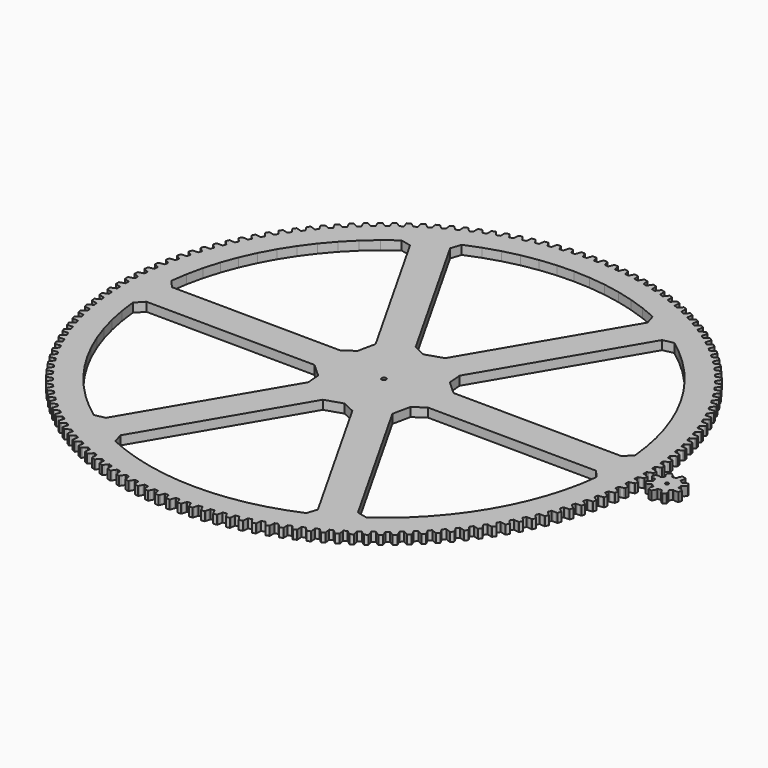
from build123d import *

# Parameters (mm, degrees)
F1_DEPTH = 4


with BuildPart() as f1:
    # F0 (on Top) → F1 (new body)
    with BuildSketch(Plane.XY):
        Polygon((108.348345, 0.457695), (107.747615, 0.658265), (107.726525, 2.302995), (108.321915, 2.518895), (109.510805, 2.983445), (110.104215, 3.231435), (110.049155, 4.841015), (109.440185, 5.047865), (108.222325, 5.430085), (107.613575, 5.604795), (107.522225, 7.247135), (108.107845, 7.488275), (109.275805, 8.003205), (109.858075, 8.276315), (109.734285, 9.882075), (109.117035, 10.062715), (107.883955, 10.392555), (107.268305, 10.541095), (107.106855, 12.178025), (107.681635, 12.443965), (108.826525, 13.008335), (109.396595, 13.306075), (109.204305, 14.905085), (108.579895, 15.059185), (107.333855, 15.336025), (106.712405, 15.458125), (106.481165, 17.086655), (107.044055, 17.376925), (108.163785, 17.989685), (108.720615, 18.311525), (108.460175, 19.900845), (107.829755, 20.028135), (106.573015, 20.251475), (105.946925, 20.346905), (105.646305, 21.964075), (106.196275, 22.278125), (107.288795, 22.938185), (107.831365, 23.283515), (107.503255, 24.860255), (106.867965, 24.960485), (105.602835, 25.129925), (104.973235, 25.198515), (104.603795, 26.801365), (105.139845, 27.138635), (106.203165, 27.844765), (106.730475, 28.212965), (106.335295, 29.774255), (105.696305, 29.847245), (104.425095, 29.962465), (103.793135, 30.004095), (103.355535, 31.589695), (103.876695, 31.949555), (104.908865, 32.700475), (105.419965, 33.090875), (104.958425, 34.633845), (104.316905, 34.679465), (103.041925, 34.740275), (102.408775, 34.754855), (101.903825, 36.320305), (102.409115, 36.702105), (103.408265, 37.496455), (103.902215, 37.908325), (103.375165, 39.430175), (102.732285, 39.448335), (101.455875, 39.454605), (100.822665, 39.442125), (100.251295, 40.984565), (100.739815, 41.387615), (101.704105, 42.223925), (102.180005, 42.656525), (101.588415, 44.154465), (100.945335, 44.145145), (99.669825, 44.096865), (99.037735, 44.057335), (98.400965, 45.573955), (98.871825, 45.997515), (99.799495, 46.874255), (100.256475, 47.326805), (99.601415, 48.798095), (98.959325, 48.761305), (97.687045, 48.658565), (97.057215, 48.592065), (96.356225, 50.080095), (96.808555, 50.523375), (97.697915, 51.438965), (98.135145, 51.910625), (97.417815, 53.352585), (96.777885, 53.288385), (95.511155, 53.131375), (94.884745, 53.038025), (94.120815, 54.494745), (94.553785, 54.956945), (95.403215, 55.909705), (95.819885, 56.399615), (95.041595, 57.809605), (94.404995, 57.718125), (93.146125, 57.507135), (92.524285, 57.387095), (91.698805, 58.809835), (92.111625, 59.290125), (92.919565, 60.278305), (93.314925, 60.785575), (92.477105, 62.161015), (91.844995, 62.042415), (90.596285, 61.777825), (89.980135, 61.631335), (89.094625, 63.017505), (89.486545, 63.514995), (90.251525, 64.536785), (90.624845, 65.060485), (89.729015, 66.398875), (89.102545, 66.253375), (87.866295, 65.935675), (87.256965, 65.762985), (86.313025, 67.110045), (86.683335, 67.623825), (87.403955, 68.677385), (87.754555, 69.216555), (86.802355, 70.515435), (86.182675, 70.343305), (84.961125, 69.973065), (84.359735, 69.774495), (83.359095, 71.079995), (83.707115, 71.609135), (84.382055, 72.692515), (84.709305, 73.246175), (83.702465, 74.503185), (83.090715, 74.304735), (81.886095, 73.882635), (81.293735, 73.658555), (80.238225, 74.920105), (80.563325, 75.463625), (81.191355, 76.574855), (81.494645, 77.141995), (80.435015, 78.354835), (79.832295, 78.130425), (78.646815, 77.657235), (78.064575, 77.408045), (76.956125, 78.623345), (77.257695, 79.180265), (77.837675, 80.317315), (78.116455, 80.896895), (77.005965, 82.063355), (76.413395, 81.813385), (75.249215, 81.289975), (74.678155, 81.016135), (73.518785, 82.182965), (73.796285, 82.752255), (74.327145, 83.913055), (74.580905, 84.504015), (73.421595, 85.621955), (72.840235, 85.346905), (71.699485, 84.774225), (71.140645, 84.476235), (69.932475, 85.592455), (70.185395, 86.173085), (70.666175, 87.355505), (70.894445, 87.956775), (69.688425, 89.024155), (69.119355, 88.724505), (68.004115, 88.103605), (67.458525, 87.782015), (66.203765, 88.845585), (66.431645, 89.436495), (66.861455, 90.638375), (67.063825, 91.248845), (65.813295, 92.263725), (65.257545, 91.940035), (64.169865, 91.272055), (63.638505, 90.927435), (62.339445, 91.936415), (62.541865, 92.536525), (62.919925, 93.755675), (63.096035, 94.374245), (61.803285, 95.334755), (61.261875, 94.987615), (60.203715, 94.273765), (59.687575, 93.906755), (58.346595, 94.859315), (58.523185, 95.467515), (58.848805, 96.701715), (58.998315, 97.327235), (57.665705, 98.231625), (57.139625, 97.861675), (56.112935, 97.103255), (55.612945, 96.714535), (54.232485, 97.608915), (54.382925, 98.224115), (54.655515, 99.471095), (54.778165, 100.102435), (53.408125, 100.949065), (52.898325, 100.556965), (51.904995, 99.755375), (51.422065, 99.345635), (50.004645, 100.180215), (50.128665, 100.801285), (50.347725, 102.058775), (50.443285, 102.694775), (49.038315, 103.482085), (48.545745, 103.068565), (47.587565, 102.225265), (47.122585, 101.795265), (45.670805, 102.568515), (45.768165, 103.194315), (45.933295, 104.460015), (46.001585, 105.099525), (44.564265, 105.826085), (44.089805, 105.391885), (43.168535, 104.508415), (42.722365, 104.058935), (41.238865, 104.769455), (41.309395, 105.398835), (41.420285, 106.670435), (41.461195, 107.312275), (39.994135, 107.976755), (39.538665, 107.522685), (38.655995, 106.600655), (38.229425, 106.132525), (36.716925, 106.778995), (36.760505, 107.410825), (36.816955, 108.685995), (36.830405, 109.329005), (35.336285, 109.930185), (34.900645, 109.457065), (34.058165, 108.498165), (33.651995, 108.012235), (32.113245, 108.593485), (32.129785, 109.226595), (32.131705, 110.503025), (32.117665, 111.146015), (30.599225, 111.682805), (30.184195, 111.191505), (29.383465, 110.197475), (28.998425, 109.694635), (27.436245, 110.209605), (27.425715, 110.842845), (27.373095, 112.118185), (27.331585, 112.759985), (25.791595, 113.231415), (25.397935, 112.722825), (24.640415, 111.695485), (24.277215, 111.176655), (22.694455, 111.624405), (22.656885, 112.256615), (22.549805, 113.528545), (22.480915, 114.167985), (20.922195, 114.573175), (20.550625, 114.048225), (19.837685, 112.989455), (19.496995, 112.455585), (17.896545, 112.835295), (17.831995, 113.465325), (17.670665, 114.731515), (17.574515, 115.367425), (15.999905, 115.705635), (15.651095, 115.165295), (14.984055, 114.077035), (14.666485, 113.529085), (13.051275, 113.840065), (12.959865, 114.466755), (12.744575, 115.724895), (12.621345, 116.356125), (11.033715, 116.626745), (10.708325, 116.071995), (10.088385, 114.956215), (9.794515, 114.395195), (8.167495, 114.636875), (8.049385, 115.259095), (7.780545, 116.506885), (7.630445, 117.132265), (6.032705, 117.334805), (5.731315, 116.766655), (5.159625, 115.625405), (4.889995, 115.052345), (3.254135, 115.224285), (3.109545, 115.840885), (2.787625, 117.076045), (2.610945, 117.694445), (1.006005, 117.828525), (0.729165, 117.248015), (0.206765, 116.083385), (-0.038125, 115.499325), (-1.679845, 115.601205), (-1.850645, 116.211065), (-2.225055, 117.431345), (-2.427995, 118.041625), (-4.037195, 118.107005), (-4.288975, 117.515195), (-4.761135, 116.329305), (-4.980855, 115.735315), (-6.625425, 115.766955), (-6.822125, 116.368955), (-7.248335, 117.572125), (-7.477165, 118.173175), (-9.087695, 118.169735), (-9.313955, 117.567705), (-9.735015, 116.362725), (-9.929145, 115.759895), (-11.573565, 115.721225), (-11.795815, 116.314275), (-12.273045, 117.498135), (-12.527345, 118.088865), (-14.136255, 118.016605), (-14.336585, 117.405455), (-14.705775, 116.183585), (-14.873965, 115.573005), (-16.515235, 115.464115), (-16.762625, 116.047115), (-17.289995, 117.209505), (-17.569315, 117.788825), (-19.173665, 117.647885), (-19.347695, 117.028745), (-19.664335, 115.792215), (-19.806285, 115.174995), (-21.441405, 114.996075), (-21.713475, 115.567975), (-22.290035, 116.706765), (-22.593855, 117.273625), (-24.190715, 117.064265), (-24.338135, 116.438245), (-24.601645, 115.189315), (-24.717095, 114.566595), (-26.343075, 114.317965), (-26.639335, 114.877725), (-27.264035, 115.990835), (-27.591795, 116.544195), (-29.178245, 116.266795), (-29.298785, 115.635045), (-29.508685, 114.375995), (-29.597425, 113.748915), (-31.211295, 113.431035), (-31.531205, 113.977625), (-32.202895, 115.063025), (-32.553995, 115.601875), (-34.127155, 115.256935), (-34.220585, 114.620615), (-34.376495, 113.353745), (-34.438355, 112.723445), (-36.037165, 112.336895), (-36.380135, 112.869315), (-37.097595, 113.925025), (-37.471405, 114.448375), (-39.028385, 114.036535), (-39.094535, 113.396795), (-39.196175, 112.124425), (-39.231045, 111.492065), (-40.811875, 111.037545), (-41.177295, 111.554825), (-41.939195, 112.578915), (-42.335035, 113.085815), (-43.872985, 112.607815), (-43.911755, 111.965845), (-43.958925, 110.690285), (-43.966745, 110.057015), (-45.526715, 109.535365), (-45.913895, 110.036555), (-46.718865, 111.027155), (-47.135995, 111.516675), (-48.652125, 110.973395), (-48.663415, 110.330355), (-48.656045, 109.053945), (-48.636795, 108.420915), (-50.173045, 107.833085), (-50.581295, 108.317275), (-51.427855, 109.272575), (-51.865525, 109.743825), (-53.357055, 109.136255), (-53.340865, 108.493325), (-53.278955, 107.218395), (-53.232675, 106.586765), (-54.742405, 105.933825), (-55.170965, 106.400125), (-56.057575, 107.318385), (-56.514985, 107.770505), (-57.979185, 107.099755), (-57.935535, 106.458095), (-57.819205, 105.186985), (-57.745985, 104.557905), (-59.226435, 103.841055), (-59.674525, 104.288625), (-60.599565, 105.168145), (-61.075875, 105.600315), (-62.510075, 104.867615), (-62.439045, 104.228405), (-62.268515, 102.963425), (-62.168475, 102.338055), (-63.616945, 101.558595), (-64.083755, 101.986605), (-65.045525, 102.825805), (-65.539865, 103.237215), (-66.941455, 102.443905), (-66.843175, 101.808315), (-66.618745, 100.551775), (-66.492075, 99.931245), (-67.905915, 99.090615), (-68.390585, 99.498285), (-69.387335, 100.295625), (-69.898805, 100.685535), (-71.265215, 99.833065), (-71.139875, 99.202255), (-70.861955, 97.956445), (-70.708885, 97.341905), (-72.085515, 96.441625), (-72.587155, 96.828205), (-73.617075, 97.582225), (-74.144735, 97.949935), (-75.473465, 97.039845), (-75.321285, 96.414975), (-74.990385, 95.182175), (-74.811195, 94.574735), (-76.148095, 93.616455), (-76.665805, 93.981255), (-77.727005, 94.690575), (-78.269885, 95.035395), (-79.558525, 94.069365), (-79.379775, 93.451565), (-78.996505, 92.234035), (-78.791525, 91.634805), (-80.086255, 90.620275), (-80.619085, 90.962615), (-81.709615, 91.625945), (-82.266745, 91.947255), (-83.512925, 90.927045), (-83.307945, 90.317445), (-82.872995, 89.117405), (-82.642595, 88.527475), (-83.892795, 87.458555), (-84.439765, 87.777815), (-85.557645, 88.393935), (-86.127985, 88.691155), (-87.329435, 87.618625), (-87.098595, 87.018335), (-86.612765, 85.837985), (-86.357375, 85.258435), (-87.560755, 84.137065), (-88.120865, 84.432665), (-89.264045, 85.000465), (-89.846575, 85.273035), (-91.001105, 84.150145), (-90.744815, 83.560275), (-90.208995, 82.401755), (-89.929075, 81.833655), (-91.083445, 80.661885), (-91.655665, 80.933285), (-92.822075, 81.451705), (-93.415715, 81.699135), (-94.521205, 80.527945), (-94.239945, 79.949565), (-93.655115, 78.814995), (-93.351165, 78.259375), (-94.454415, 77.039355), (-95.037715, 77.286045), (-96.225205, 77.754165), (-96.828875, 77.976005), (-97.883315, 76.758645), (-97.577605, 76.192805), (-96.944825, 75.084265), (-96.617415, 74.542135), (-97.667515, 73.276085), (-98.260825, 73.497635), (-99.467235, 73.914575), (-100.079835, 74.110425), (-101.081295, 72.849115), (-100.751675, 72.296855), (-100.072115, 71.216375), (-99.721835, 70.688725), (-100.716885, 69.378965), (-101.319115, 69.574955), (-102.542245, 69.939975), (-103.162655, 70.109455), (-104.109295, 68.806515), (-103.756385, 68.268845), (-103.031275, 67.218385), (-102.658765, 66.706185), (-103.596945, 65.355105), (-104.207005, 65.525185), (-105.444605, 65.837605), (-106.071685, 65.980425), (-106.961795, 64.638215), (-106.586235, 64.116115), (-105.816895, 63.097595), (-105.422845, 62.601795), (-106.302435, 61.211845), (-106.919205, 61.355705), (-108.169025, 61.614955), (-108.801635, 61.730855), (-109.633575, 60.351845), (-109.236055, 59.846265), (-108.423895, 58.861555), (-108.009025, 58.383035), (-108.828415, 56.956775), (-109.450765, 57.074155), (-110.710525, 57.279765), (-111.347515, 57.368515), (-112.119765, 55.955215), (-111.700995, 55.467095), (-110.847505, 54.517975), (-110.412565, 54.057625), (-111.170265, 52.597655), (-111.797065, 52.688335), (-113.064455, 52.839925), (-113.704655, 52.901385), (-114.415815, 51.456375), (-113.976575, 50.986585), (-113.083305, 50.074805), (-112.629095, 49.633465), (-113.323715, 48.142455), (-113.953815, 48.206265), (-115.226525, 48.303555), (-115.868765, 48.337605), (-116.517535, 46.863525), (-116.058625, 46.412945), (-115.127205, 45.540165), (-114.654545, 45.118625), (-115.284825, 43.599305), (-115.917085, 43.636125), (-117.192785, 43.678955), (-117.835895, 43.685525), (-118.421085, 42.185075), (-117.943335, 41.754505), (-116.975485, 40.922325), (-116.485245, 40.521375), (-117.050025, 38.976495), (-117.683275, 38.986275), (-118.959645, 38.974555), (-119.602445, 38.953635), (-120.122985, 37.429555), (-119.627275, 37.019795), (-118.624745, 36.229725), (-118.117815, 35.850085), (-118.616075, 34.282495), (-119.249165, 34.265205), (-120.523865, 34.198955), (-121.165195, 34.150595), (-121.620125, 32.605655), (-121.107365, 32.217445), (-120.071985, 31.470945), (-119.549305, 31.113315), (-119.980125, 29.525855), (-120.611895, 29.481535), (-121.882605, 29.360875), (-122.521275, 29.285155), (-122.909785, 27.722185), (-122.380895, 27.356245), (-121.314565, 26.654665), (-120.777085, 26.319695), (-121.139675, 24.715285), (-121.768975, 24.644005), (-123.033365, 24.469155), (-123.668215, 24.366215), (-123.989585, 22.788075), (-123.445545, 22.445065), (-122.350215, 21.789695), (-121.798905, 21.477995), (-122.092615, 19.859555), (-122.718285, 19.761445), (-123.974055, 19.532735), (-124.603935, 19.402755), (-124.857575, 17.812335), (-124.299375, 17.492885), (-123.177045, 16.884905), (-122.612915, 16.597055), (-122.837195, 14.967545), (-123.458105, 14.842785), (-124.702955, 14.560625), (-125.326705, 14.403855), (-125.512155, 12.804045), (-124.940815, 12.508735), (-123.793525, 11.949275), (-123.217615, 11.685785), (-123.372065, 10.048175), (-123.987085, 9.897005), (-125.218735, 9.561915), (-125.835215, 9.378635), (-125.952135, 7.772355), (-125.368695, 7.501735), (-124.198555, 6.991805), (-123.611905, 6.753165), (-123.696245, 5.110455), (-124.304235, 4.933145), (-125.520445, 4.545725), (-126.128535, 4.336275), (-126.176705, 2.726465), (-125.582245, 2.481025), (-124.391375, 2.021555), (-123.795075, 1.808205), (-123.809135, 0.163395), (-124.408995, -0.039735), (-125.607545, -0.478775), (-126.206125, -0.714015), (-126.185475, -2.324415), (-125.581055, -2.544235), (-124.371645, -2.952385), (-123.766775, -3.140065), (-123.710535, -4.783985), (-124.301175, -5.012555), (-125.479865, -5.502405), (-126.067845, -5.763015), (-125.978405, -7.371055), (-125.365145, -7.564845), (-124.139405, -7.920945), (-123.527055, -8.082615), (-123.400635, -9.722615), (-123.980965, -9.976225), (-125.137645, -10.515995), (-125.713955, -10.801485), (-125.555875, -12.404235), (-124.934905, -12.571645), (-123.695065, -12.875045), (-123.076375, -13.010395), (-122.879985, -14.643505), (-123.448945, -14.921675), (-124.581515, -15.510375), (-125.145085, -15.820235), (-124.918675, -17.414765), (-124.291115, -17.555485), (-123.039445, -17.805635), (-122.415535, -17.914425), (-122.149535, -19.537655), (-122.706095, -19.839875), (-123.812475, -20.476435), (-124.362295, -20.810095), (-124.067955, -22.393495), (-123.434955, -22.507275), (-122.173735, -22.703705), (-121.545745, -22.785735), (-121.210635, -24.396115), (-121.753775, -24.721845), (-122.831935, -25.405095), (-123.367005, -25.761945), (-123.005275, -27.331315), (-122.367995, -27.417945), (-121.099525, -27.560315), (-120.468605, -27.615435), (-120.064995, -29.210025), (-120.593715, -29.558665), (-121.641705, -30.287355), (-122.161025, -30.666745), (-121.732565, -32.219235), (-121.092165, -32.278545), (-119.818785, -32.366585), (-119.186085, -32.394695), (-118.714695, -33.970575), (-119.228045, -34.341495), (-120.243935, -35.114305), (-120.746575, -35.515535), (-120.252165, -37.048295), (-119.609815, -37.080195), (-118.333835, -37.113735), (-117.700505, -37.114785), (-117.162225, -38.669095), (-117.659245, -39.061605), (-118.641185, -39.877115), (-119.126225, -40.299455), (-118.566775, -41.809695), (-117.923645, -41.814115), (-116.647395, -41.793105), (-116.014605, -41.767095), (-115.410395, -43.296975), (-115.890195, -43.710365), (-116.836385, -44.567095), (-117.302935, -45.009765), (-116.679465, -46.494725), (-116.036735, -46.471655), (-114.762545, -46.396135), (-114.131445, -46.343105), (-113.462415, -47.845775), (-113.924115, -48.279295), (-114.832835, -49.175665), (-115.280045, -49.637875), (-114.593695, -51.094825), (-113.952535, -51.044325), (-112.682735, -50.914425), (-112.054475, -50.834475), (-111.321855, -52.307185), (-111.764605, -52.760035), (-112.634195, -53.694415), (-113.061245, -54.175315), (-112.313265, -55.601615), (-111.674855, -55.523755), (-110.411765, -55.339715), (-109.787495, -55.232995), (-108.992605, -56.673055), (-109.415605, -57.144405), (-110.244475, -58.115095), (-110.650585, -58.613805), (-109.842345, -60.006835), (-109.207845, -59.901775), (-107.953765, -59.663925), (-107.334635, -59.530635), (-106.478935, -60.935405), (-106.881405, -61.424405), (-107.668045, -62.429625), (-108.052475, -62.945225), (-107.185445, -64.302455), (-106.556015, -64.170375), (-105.313245, -63.879155), (-104.700375, -63.719535), (-103.785435, -65.086465), (-104.166635, -65.592215), (-104.909605, -66.630125), (-105.271655, -67.161685), (-104.347425, -68.480615), (-103.724205, -68.321765), (-102.495025, -67.977715), (-101.889525, -67.792045), (-100.917015, -69.118625), (-101.276265, -69.640205), (-101.974205, -70.708915), (-102.313205, -71.255465), (-101.333465, -72.533705), (-100.717605, -72.348365), (-99.504245, -71.952105), (-98.907235, -71.740725), (-97.878925, -73.024545), (-98.215555, -73.560995), (-98.867195, -74.658555), (-99.182535, -75.219085), (-98.149065, -76.454295), (-97.541685, -76.242815), (-96.346365, -75.795065), (-95.758935, -75.558375), (-94.676705, -76.797085), (-94.990115, -77.347425), (-95.594255, -78.471825), (-95.885355, -79.045325), (-94.800055, -80.235245), (-94.202265, -79.997995), (-93.027165, -79.499585), (-92.450385, -79.238015), (-91.316215, -80.429345), (-91.605815, -80.992575), (-92.161365, -82.141765), (-92.427695, -82.727175), (-91.292535, -83.869635), (-90.705435, -83.607055), (-89.552705, -83.058895), (-88.987625, -82.772915), (-87.803595, -83.914695), (-88.068865, -84.489785), (-88.574795, -85.661665), (-88.815865, -86.257915), (-87.632925, -87.350825), (-87.057585, -87.063405), (-85.929335, -86.466485), (-85.376985, -86.156615), (-84.145245, -87.246765), (-84.385695, -87.832665), (-84.841095, -89.025095), (-85.056475, -89.631105), (-83.827915, -90.672465), (-83.265375, -90.360725), (-82.163665, -89.716145), (-81.625065, -89.382955), (-80.347865, -90.419475), (-80.563065, -91.015115), (-80.967095, -92.225915), (-81.156375, -92.840565), (-79.884445, -93.828485), (-79.335735, -93.492995), (-78.262575, -92.801925), (-77.738705, -92.446025), (-76.418375, -93.427025), (-76.607925, -94.031315), (-76.959855, -95.258275), (-77.122695, -95.880455), (-75.809715, -96.813125), (-75.275845, -96.454485), (-74.233195, -95.718195), (-73.725005, -95.340235), (-72.363975, -96.263915), (-72.527525, -96.875765), (-72.826705, -98.116635), (-72.962815, -98.745205), (-71.611175, -99.620915), (-71.093115, -99.239805), (-70.082875, -98.459625), (-69.591305, -98.060295), (-68.192045, -98.924985), (-68.329305, -99.543255), (-68.575185, -100.795775), (-68.684315, -101.429595), (-67.296495, -102.246745), (-66.795195, -101.843845), (-65.819215, -101.021205), (-65.345155, -100.601245), (-63.910225, -101.405345), (-64.020945, -102.028925), (-64.213085, -103.290805), (-64.295025, -103.928705), (-62.873555, -104.685815), (-62.389935, -104.261855), (-61.449995, -103.398275), (-60.994315, -102.958435), (-59.526335, -103.700485), (-59.610305, -104.328225), (-59.748345, -105.597165), (-59.802955, -106.237985), (-58.350435, -106.933665), (-57.885365, -106.489425), (-56.983185, -105.586465), (-56.546715, -105.127555), (-55.048375, -105.806205), (-55.105445, -106.436955), (-55.189135, -107.710635), (-55.216315, -108.353205), (-53.735395, -108.986185), (-53.289735, -108.522485), (-52.426965, -107.581795), (-52.010495, -107.104655), (-50.484525, -107.718665), (-50.514595, -108.351275), (-50.543785, -109.627365), (-50.543485, -110.270515), (-49.036865, -110.839635), (-48.611425, -110.357305), (-47.789635, -109.380615), (-47.393945, -108.886125), (-45.843125, -109.434365), (-45.846135, -110.067675), (-45.820775, -111.343855), (-45.792995, -111.986395), (-44.263435, -112.490615), (-43.858985, -111.990555), (-43.079685, -110.979645), (-42.705485, -110.468695), (-41.132655, -110.950165), (-41.108595, -111.583035), (-41.028725, -112.856955), (-40.973515, -113.497725), (-39.423805, -113.936135), (-39.041105, -113.419245), (-38.305705, -112.375955), (-37.953675, -111.849485), (-36.361715, -112.263305), (-36.310635, -112.894575), (-36.176405, -114.163925), (-36.093865, -114.801745), (-34.526845, -115.173525), (-34.166575, -114.640765), (-33.476425, -113.567005), (-33.147215, -113.025965), (-31.539025, -113.371395), (-31.461025, -113.999895), (-31.272675, -115.262345), (-31.162955, -115.896065), (-29.581475, -116.200555), (-29.244295, -115.652875), (-28.600665, -114.550605), (-28.294875, -113.995995), (-26.673385, -114.272385), (-26.568605, -114.896985), (-26.326485, -116.150235), (-26.189785, -116.778685), (-24.596735, -117.015315), (-24.283275, -116.453735), (-23.687325, -115.324975), (-23.405515, -114.757805), (-21.773695, -114.964655), (-21.642315, -115.584205), (-21.346865, -116.825965), (-21.183445, -117.448005), (-19.581735, -117.616345), (-19.292555, -117.041885), (-18.745385, -115.888685), (-18.488065, -115.309995), (-16.848905, -115.446925), (-16.691165, -116.060295), (-16.342925, -117.288305), (-16.153075, -117.902785), (-14.545635, -118.002535), (-14.281265, -117.416245), (-13.783875, -116.240715), (-13.551515, -115.651555), (-11.907995, -115.718325), (-11.724195, -116.324395), (-11.323805, -117.536395), (-11.107865, -118.142205), (-9.497635, -118.173175), (-9.258555, -117.576125), (-8.811845, -116.380415), (-8.604875, -115.781865), (-6.960005, -115.778355), (-6.750475, -116.376015), (-6.298665, -117.569795), (-6.057035, -118.165825), (-4.446955, -118.127965), (-4.233605, -117.521245), (-3.838395, -116.307545), (-3.657185, -115.700695), (-2.013975, -115.626895), (-1.779095, -116.215055), (-1.276685, -117.388445), (-1.009805, -117.973605), (0.597185, -117.866985), (0.784415, -117.251695), (1.127405, -116.022215), (1.282515, -115.408175), (2.921075, -115.264235), (3.180865, -115.841825), (3.732965, -116.992675), (4.024595, -117.565895), (5.625565, -117.390705), (5.786335, -116.767975), (6.076465, -115.524965), (6.205205, -114.904865), (7.836115, -114.691035), (8.120355, -115.256995), (8.721115, -116.383205), (9.036975, -116.943435), (10.629005, -116.699995), (10.763015, -116.070975), (10.999775, -114.816695), (11.101885, -114.191655), (12.722175, -113.908335), (13.030335, -114.461635), (13.678675, -115.561145), (14.018185, -116.107375), (15.598355, -115.796125), (15.705365, -115.161945), (15.888315, -113.898705), (15.963625, -113.269875), (17.570325, -112.917575), (17.901845, -113.457195), (18.596575, -114.528005), (18.959125, -115.059225), (20.524545, -114.680745), (20.604355, -114.042575), (20.733165, -112.772665), (20.781535, -112.141185), (22.371725, -111.720555), (22.725995, -112.245525), (23.465845, -113.285665), (23.850755, -113.800905), (25.398575, -113.355885), (25.451045, -112.714885), (25.525475, -111.440625), (25.546825, -110.807665), (27.117575, -110.319475), (27.493955, -110.828815), (28.277575, -111.836395), (28.684155, -112.334725), (30.211545, -111.823965), (30.236575, -111.181305), (30.256485, -109.905035), (30.250775, -109.271735), (31.799235, -108.716875), (32.197035, -109.209675), (33.022995, -110.182845), (33.450485, -110.663345), (34.954665, -110.087795), (34.952215, -109.444655), (34.917565, -108.168695), (34.884795, -107.536215), (36.408135, -106.915695), (36.826625, -107.391045), (37.693415, -108.328035), (38.141055, -108.789835), (39.619255, -108.150525), (39.589325, -107.508085), (39.500195, -106.234775), (39.440425, -105.604275), (40.935855, -104.919225), (41.374285, -105.376265), (42.280315, -106.275355), (42.747275, -106.717605), (44.196815, -106.015715), (44.139465, -105.375135), (43.995995, -104.106805), (43.909345, -103.479435), (45.374135, -102.731105), (45.831695, -103.168995), (46.775315, -104.028555), (47.260745, -104.450445), (48.678975, -103.687265), (48.594295, -103.049715), (48.396775, -101.788665), (48.283395, -101.165575), (49.714875, -100.355345), (50.190715, -100.773275), (51.170205, -101.591735), (51.673225, -101.992495), (53.057545, -101.169415), (52.945705, -100.536065), (52.694475, -99.284605), (52.554575, -98.666925), (53.950125, -97.796275), (54.443395, -98.193495), (55.456965, -98.969345), (55.976645, -99.348245), (57.324525, -98.466765), (57.185725, -97.838775), (56.881245, -96.599195), (56.715085, -95.988055), (58.072155, -95.058565), (58.581955, -95.434345), (59.627745, -96.166185), (60.163135, -96.522525), (61.472125, -95.584255), (61.306625, -94.962775), (60.949455, -93.737335), (60.757325, -93.133855), (62.073445, -92.147225), (62.598825, -92.500885), (63.674935, -93.187365), (64.225075, -93.520505), (65.492775, -92.527155), (65.300865, -91.913315), (64.891665, -90.704255), (64.673915, -90.109545), (65.946675, -89.067575), (66.486695, -89.398455), (67.591155, -90.038325), (68.155015, -90.347655), (69.379115, -89.301055), (69.161155, -88.695965), (68.700665, -87.505505), (68.457705, -86.920625), (69.684775, -85.825225), (70.238445, -86.132735), (71.369235, -86.724825), (71.945805, -87.009785), (73.124055, -85.911825), (72.880435, -85.316615), (72.369505, -84.146905), (72.101775, -83.572955), (73.280925, -82.426115), (73.847215, -82.709685), (75.002275, -83.252915), (75.590495, -83.512975), (76.720765, -82.365675), (76.451935, -81.781415), (75.891475, -80.634615), (75.599475, -80.072625), (76.728535, -78.876455), (77.306435, -79.135555), (78.483655, -79.628945), (79.082445, -79.863625), (80.162655, -78.669085), (79.869105, -78.096835), (79.260155, -76.975035), (78.944405, -76.426035), (80.021325, -75.182705), (80.609765, -75.416885), (81.806995, -75.859515), (82.415265, -76.068405), (83.443445, -74.828785), (83.125715, -74.269615), (82.469395, -73.174845), (82.130465, -72.639845), (83.153275, -71.351645), (83.751185, -71.560465), (84.966235, -71.951525), (85.582875, -72.134235), (86.557145, -70.851815), (86.215815, -70.306725), (85.513305, -69.241015), (85.151835, -68.720975), (86.118665, -67.390245), (86.724955, -67.573325), (87.955595, -67.912115), (88.579485, -68.068305), (89.498075, -66.745435), (89.133755, -66.215425), (88.386355, -65.180695), (88.002995, -64.676585), (88.912085, -63.305755), (89.525635, -63.462765), (90.769635, -63.748665), (91.399625, -63.878045), (92.260845, -62.517135), (91.874215, -62.003175), (91.083285, -61.001325), (90.678735, -60.514055), (91.528415, -59.105635), (92.148115, -59.236285), (93.403195, -59.468765), (94.038135, -59.571115), (94.840415, -58.174635), (94.432185, -57.677675), (93.599165, -56.710535), (93.174155, -56.240995), (93.962885, -54.797555), (94.587605, -54.901605), (95.851465, -55.080245), (96.490205, -55.155365), (97.232085, -53.725885), (96.802985, -53.246825), (95.929405, -52.316165), (95.484725, -51.865205), (96.211045, -50.389385), (96.839645, -50.466645), (98.109985, -50.591115), (98.751355, -50.638885), (99.431475, -49.179005), (98.982295, -48.718715), (98.069745, -47.826235), (97.606195, -47.394695), (98.268805, -45.889175), (98.900125, -45.939505), (100.174625, -46.009585), (100.817445, -46.029895), (101.434565, -44.542295), (100.966125, -44.101615), (100.016275, -43.248945), (99.534715, -42.837605), (100.132385, -41.305155), (100.765275, -41.328465), (102.041605, -41.344015), (102.684715, -41.336845), (103.237695, -39.824235), (102.750855, -39.403965), (101.765445, -38.592665), (101.266745, -38.202275), (101.798385, -36.645685), (102.431695, -36.641925), (103.707525, -36.602935), (104.349735, -36.568285), (104.837585, -35.033425), (104.333235, -34.634355), (103.314045, -33.865895), (102.799125, -33.497175), (103.263765, -31.919285), (103.896345, -31.888475), (105.169345, -31.794995), (105.809485, -31.732945), (106.231305, -30.178635), (105.710355, -29.801475), (104.659265, -29.077265), (104.129065, -28.730885), (104.525855, -27.134595), (105.156535, -27.076775), (106.424375, -26.928985), (107.061285, -26.839635), (107.416305, -25.268725), (106.879715, -24.914175), (105.798645, -24.235535), (105.254115, -23.912125), (105.582345, -22.300335), (106.209975, -22.215625), (107.470345, -22.013795), (108.102855, -21.897305), (108.390425, -20.312665), (107.839175, -19.981365), (106.730095, -19.349545), (106.172245, -19.049695), (106.431295, -17.425345), (107.054735, -17.313895), (108.305335, -17.058395), (108.932285, -16.914995), (109.151875, -15.319505), (108.586985, -15.012065), (107.451915, -14.428205), (106.881765, -14.152475), (107.071165, -12.518545), (107.689275, -12.380545), (108.927815, -12.071845), (109.548065, -11.901785), (109.699285, -10.298375), (109.121765, -10.015345), (107.962785, -9.480525), (107.381375, -9.229405), (107.500795, -7.588875), (108.112435, -7.424595), (109.336655, -7.063255), (109.949065, -6.866845), (110.031635, -5.258435), (109.442555, -5.000345), (108.261775, -4.515535), (107.670165, -4.289485), (107.719375, -2.645355), (108.323445, -2.455085), (109.531105, -2.041765), (110.134565, -1.819365), (110.148335, -0.208895), (109.548755, 0.023785), align=None)
        Polygon((-53.347505, -90.944325), (-14.903075, -25.652055), (-7.154415, -23.143235), (-1.596155, -25.765815), (35.726395, -91.705795), (34.239595, -96.276505), (27.365075, -99.010565), (20.315315, -101.254445), (13.125225, -102.997025), (5.830395, -104.229685), (-1.533065, -104.946325), (-8.928685, -105.143395), (-16.319855, -104.819925), (-23.669985, -103.977495), (-30.942675, -102.620295), (-38.101925, -100.755045), (-45.112295, -98.390975), (-51.939055, -95.539785), align=None, mode=Mode.SUBTRACT)
        Polygon((-109.445395, -6.227895), (-33.678415, -6.875615), (-27.631385, -12.331735), (-27.123475, -18.456625), (-65.567895, -83.748895), (-70.269655, -84.746635), (-76.074675, -80.160165), (-81.542805, -75.176835), (-86.646975, -69.821325), (-91.361915, -64.120145), (-95.664265, -58.101525), (-99.532745, -51.795265), (-102.948195, -45.232585), (-105.893695, -38.445975), (-108.354675, -31.469035), (-110.318945, -24.336315), (-111.776775, -17.083125), (-112.720955, -9.745375), align=None, mode=Mode.SUBTRACT)
        Polygon((-7.063945, 0.254905), (-7.029875, -0.003915), (-7.063945, -0.262735), (-7.163845, -0.503915), (-7.322765, -0.711015), (-7.529875, -0.869935), (-7.771055, -0.969835), (-8.029875, -1.003915), (-8.288695, -0.969835), (-8.529875, -0.869935), (-8.736975, -0.711015), (-8.895895, -0.503915), (-8.995795, -0.262735), (-9.029875, -0.003915), (-8.995795, 0.254905), (-8.895895, 0.496085), (-8.736975, 0.703195), (-8.529875, 0.862115), (-8.288695, 0.962015), (-8.029875, 0.996085), (-7.771055, 0.962015), (-7.529875, 0.862115), (-7.322765, 0.703195), (-7.163845, 0.496085), align=None, mode=Mode.SUBTRACT)
        Polygon((48.068015, -84.720335), (10.745465, -18.780355), (12.447095, -10.815405), (17.497445, -7.313105), (93.264425, -7.960815), (96.479375, -11.533775), (95.409875, -18.854315), (93.828255, -26.081525), (91.742325, -33.179615), (89.162435, -40.113455), (86.101335, -46.848715), (82.574185, -53.352045), (78.598465, -59.591255), (74.193835, -65.535435), (69.382125, -71.155175), (64.187145, -76.422645), (58.634615, -81.311755), (52.752025, -85.798315), align=None, mode=Mode.SUBTRACT)
        Polygon((-64.127765, 84.712515), (-26.805215, 18.772535), (-28.506835, 10.807585), (-33.557185, 7.305275), (-109.324165, 7.952995), (-112.539115, 11.525955), (-111.469625, 18.846495), (-109.887995, 26.073695), (-107.802075, 33.171795), (-105.222175, 40.105635), (-102.161075, 46.840895), (-98.633935, 53.344225), (-94.658205, 59.583425), (-90.253585, 65.527615), (-85.441865, 71.147355), (-80.246885, 76.414815), (-74.694355, 81.303935), (-68.811775, 85.790495), align=None, mode=Mode.SUBTRACT)
        Polygon((37.287765, 90.936495), (-1.156665, 25.644235), (-8.905325, 23.135405), (-14.463585, 25.757985), (-51.786135, 91.697975), (-50.299335, 96.268685), (-43.424815, 99.002745), (-36.375065, 101.246615), (-29.184965, 102.989205), (-21.890135, 104.221865), (-14.526685, 104.938505), (-7.131055, 105.135575), (0.260115, 104.812095), (7.610235, 103.969675), (14.882935, 102.612475), (22.042185, 100.747225), (29.052545, 98.383145), (35.879315, 95.531965), align=None, mode=Mode.SUBTRACT)
        Polygon((93.385655, 6.220075), (17.618675, 6.867785), (11.571645, 12.323915), (11.063735, 18.448795), (49.508155, 83.741065), (54.209905, 84.738815), (60.014935, 80.152335), (65.483065, 75.169005), (70.587235, 69.813495), (75.302165, 64.112315), (79.604525, 58.093695), (83.473005, 51.787435), (86.888445, 45.224755), (89.833945, 38.438145), (92.294925, 31.461215), (94.259195, 24.328495), (95.717035, 17.075305), (96.661215, 9.737555), align=None, mode=Mode.SUBTRACT)
        Polygon((113.467545, -0.002225), (113.550135, -0.168555), (113.611125, -0.812165), (113.752005, -1.443115), (113.724855, -1.626825), (113.667255, -1.707205), (113.536125, -1.817685), (113.393795, -1.894985), (113.088695, -1.991655), (112.807125, -2.154035), (112.552495, -2.385895), (112.318395, -2.661445), (112.105315, -2.974545), (111.914675, -3.321455), (112.263395, -3.956975), (112.671335, -4.556215), (113.066985, -4.543835), (113.442685, -4.496135), (113.794495, -4.412645), (114.116675, -4.291025), (114.389195, -4.113865), (114.613835, -3.885905), (114.747315, -3.794185), (114.905295, -3.727505), (115.003065, -3.712665), (115.179075, -3.771885), (115.677305, -4.183855), (116.223065, -4.530385), (116.333785, -4.679495), (116.349875, -4.777065), (116.335285, -4.947905), (116.289305, -5.103205), (116.141915, -5.387295), (116.057635, -5.701225), (116.041535, -6.045215), (116.070845, -6.405595), (116.141575, -6.777655), (116.252065, -7.157765), (116.948035, -7.360565), (117.660215, -7.495835), (117.931235, -7.207315), (118.163155, -6.907915), (118.352885, -6.600125), (118.494705, -6.286305), (118.562135, -5.968335), (118.559785, -5.648295), (118.589325, -5.489055), (118.653875, -5.330205), (118.712515, -5.250575), (118.878855, -5.167985), (119.522455, -5.106995), (120.153405, -4.966115), (120.337125, -4.993265), (120.417505, -5.050875), (120.527985, -5.182005), (120.605285, -5.324325), (120.701945, -5.629425), (120.864335, -5.910995), (121.096185, -6.165625), (121.371745, -6.399725), (121.684845, -6.612805), (122.031745, -6.803445), (122.667275, -6.454725), (123.266505, -6.046785), (123.254135, -5.651135), (123.206425, -5.275435), (123.122935, -4.923625), (123.001325, -4.601445), (122.824165, -4.328935), (122.596205, -4.104285), (122.504485, -3.970805), (122.437805, -3.812825), (122.422965, -3.715055), (122.482185, -3.539045), (122.894155, -3.040825), (123.240685, -2.495055), (123.389785, -2.384345), (123.487355, -2.368245), (123.658205, -2.382835), (123.813495, -2.428815), (124.097595, -2.576205), (124.411515, -2.660485), (124.755515, -2.676585), (125.115895, -2.647275), (125.487955, -2.576545), (125.868065, -2.466055), (126.070865, -1.770085), (126.206125, -1.057905), (125.917615, -0.786895), (125.618215, -0.554965), (125.310415, -0.365235), (124.996605, -0.223415), (124.678635, -0.155985), (124.358595, -0.158335), (124.199355, -0.128795), (124.040495, -0.064245), (123.960875, -0.005605), (123.878285, 0.160735), (123.817295, 0.804335), (123.676415, 1.435285), (123.703565, 1.619005), (123.761165, 1.699385), (123.892295, 1.809865), (124.034625, 1.887165), (124.339725, 1.983825), (124.621295, 2.146215), (124.875925, 2.378065), (125.110025, 2.653625), (125.323095, 2.966715), (125.513745, 3.313625), (125.165025, 3.949155), (124.757085, 4.548385), (124.361435, 4.536015), (123.985735, 4.488305), (123.633925, 4.404815), (123.311745, 4.283205), (123.039225, 4.106045), (122.814585, 3.878075), (122.681095, 3.786365), (122.523125, 3.719685), (122.425355, 3.704845), (122.249335, 3.764065), (121.751115, 4.176035), (121.205345, 4.522565), (121.094635, 4.671665), (121.078535, 4.769235), (121.093135, 4.940085), (121.139115, 5.095375), (121.286505, 5.379475), (121.370775, 5.693395), (121.386885, 6.037395), (121.357575, 6.397775), (121.286845, 6.769835), (121.176355, 7.149945), (120.480385, 7.352745), (119.768205, 7.488005), (119.497185, 7.199495), (119.265255, 6.900095), (119.075535, 6.592295), (118.933715, 6.278485), (118.866285, 5.960515), (118.868625, 5.640475), (118.839095, 5.481235), (118.774535, 5.322375), (118.715905, 5.242755), (118.549565, 5.160165), (117.905955, 5.099175), (117.275005, 4.958295), (117.091295, 4.985435), (117.010915, 5.043045), (116.900435, 5.174175), (116.823135, 5.316495), (116.726465, 5.621605), (116.564085, 5.903175), (116.332225, 6.157805), (116.056675, 6.391905), (115.743575, 6.604975), (115.396665, 6.795625), (114.761145, 6.446905), (114.161905, 6.038965), (114.174285, 5.643315), (114.221985, 5.267615), (114.305475, 4.915805), (114.427095, 4.593625), (114.604255, 4.321105), (114.832215, 4.096465), (114.923935, 3.962975), (114.990615, 3.805005), (115.005455, 3.707235), (114.946235, 3.531215), (114.534265, 3.032995), (114.187735, 2.487225), (114.038625, 2.376515), (113.941065, 2.360415), (113.770215, 2.375015), (113.614915, 2.420995), (113.330825, 2.568385), (113.016895, 2.652655), (112.672905, 2.668765), (112.312525, 2.639455), (111.940465, 2.568725), (111.560355, 2.458235), (111.357555, 1.762265), (111.222285, 1.050085), (111.510805, 0.779065), (111.810205, 0.547135), (112.118005, 0.357415), (112.431815, 0.215595), (112.749785, 0.148165), (113.069825, 0.150505), (113.229065, 0.120975), (113.387915, 0.056415), align=None)
        Polygon((119.438655, 0.190205), (119.464205, -0.003915), (119.438655, -0.198025), (119.363725, -0.378915), (119.244535, -0.534245), (119.089205, -0.653435), (118.908325, -0.728355), (118.714205, -0.753915), (118.520095, -0.728355), (118.339205, -0.653435), (118.183875, -0.534245), (118.064695, -0.378915), (117.989765, -0.198025), (117.964205, -0.003915), (117.989765, 0.190205), (118.064695, 0.371085), (118.183875, 0.526415), (118.339205, 0.645605), (118.520095, 0.720535), (118.714205, 0.746085), (118.908325, 0.720535), (119.089205, 0.645605), (119.244535, 0.526415), (119.363725, 0.371085), align=None, mode=Mode.SUBTRACT)
    extrude(amount=F1_DEPTH)


solid = f1.part
